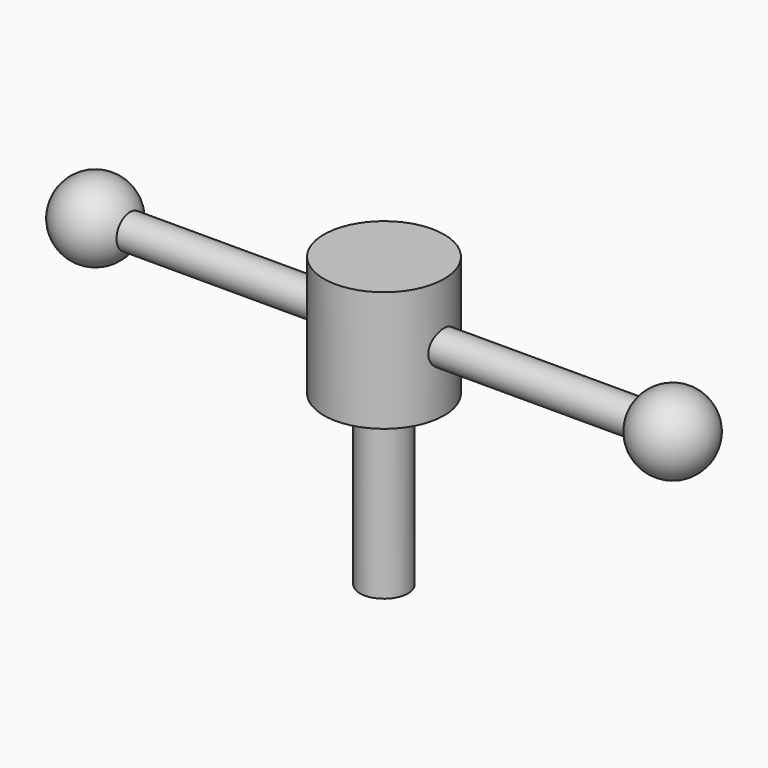
from build123d import *

# Parameters (mm, degrees)
F3_W     = 152.4
F3_H     = 4.445
F2_W     = 15.875
F2_H     = 31.75
F6_R     = 6.35
F7_DEPTH = 44.45


with BuildPart() as f1:
    # F0 (on Front) → F1 (revolve)
    with BuildSketch(Plane.XZ):
        with BuildLine():
            Line((-86.356572, 25.4), (-66.036572, 25.4))
            ThreePointArc((-66.036572, 25.4), (-76.196572, 35.56), (-86.356572, 25.4))
        make_face()
        with BuildLine():
            Line((66.043428, 25.4), (86.363428, 25.4))
            ThreePointArc((86.363428, 25.4), (76.203428, 35.56), (66.043428, 25.4))
        make_face()
    revolve(axis=Axis((-76.196572, 0, 25.4), (1, 0, 0)))

    # F3 (on Front) → F4 (revolve)
    with BuildSketch(Plane.XZ):
        with Locations((0, 27.6225)):
            Rectangle(F3_W, F3_H)
    revolve(axis=Axis((0, 0, 25.4), (1, 0, 0)))

    # F2 (on Front) → F5 (revolve)
    with BuildSketch(Plane.XZ):
        with Locations((7.9375, 25.4)):
            Rectangle(F2_W, F2_H)
    revolve(axis=Axis((0, 0, 25.4), (0, 0, -1)))

    # F6 (on face) → F7 (join)
    with BuildSketch(Plane(origin=(0, 0, 9.525), x_dir=(1, 0, 0), z_dir=(0, 0, -1))):
        Circle(F6_R)
    extrude(amount=F7_DEPTH)


solid = f1.part
